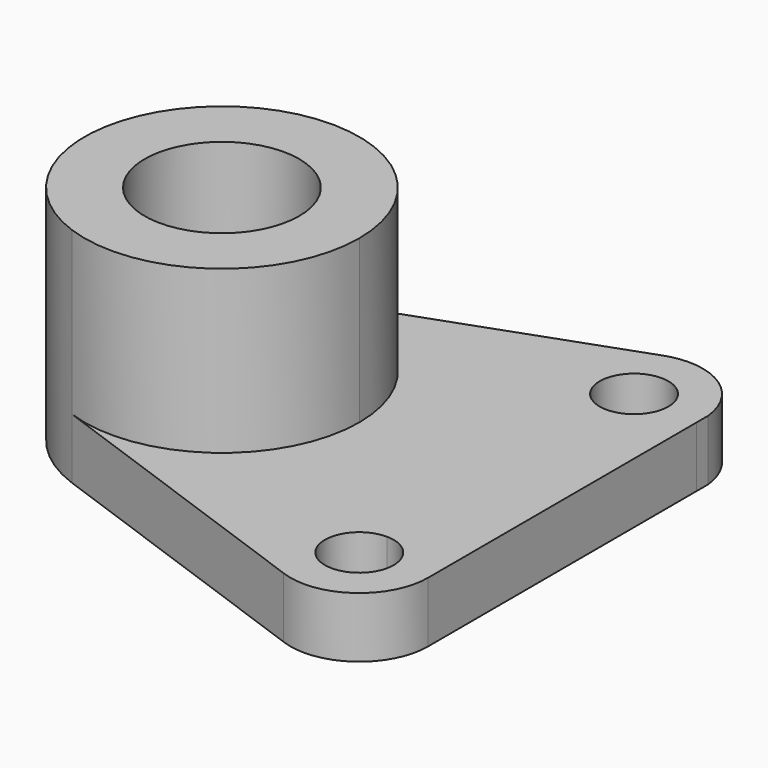
from build123d import *

# Parameters (mm, degrees)
F0_R     = 14.2875
F1_DEPTH = 11.176
F2_DEPTH = 41.148


with BuildPart() as f1:
    # F0 (on Top) → F1 (new body)
    with BuildSketch(Plane.XY):
        with BuildLine():
            ThreePointArc((-8.589072, -23.90372), (14.611598, -20.776458), (25.4, 0))
            ThreePointArc((25.4, 0), (14.612857, 20.775573), (-8.586174, 23.904761))
            ThreePointArc((-8.586174, 23.904761), (-25.4, 0.001539), (-8.589072, -23.90372))
        make_face()
        Circle(F0_R, mode=Mode.SUBTRACT)
        with BuildLine():
            ThreePointArc((-8.586174, 23.904761), (14.612857, 20.775573), (25.4, 0))
            ThreePointArc((25.4, 0), (14.611598, -20.776458), (-8.589072, -23.90372))
            Line((-8.589072, -23.90372), (46.321865, -43.634288))
            ThreePointArc((46.321865, -43.634288), (58.031458, -42.190115), (63.499992, -31.735673))
            Line((63.499992, -31.735673), (63.429879, 30.417271))
            Line((63.429879, 30.417271), (63.42684, 33.111221))
            ThreePointArc((63.42684, 33.111221), (57.339148, 42.637128), (46.069969, 43.536297))
            Line((46.069969, 43.536297), (-8.586174, 23.904761))
        make_face()
        with BuildLine():
            ThreePointArc((57.15, -31.75), (46.309872, -36.240128), (50.8, -25.4))
            ThreePointArc((50.8, -25.4), (55.290128, -27.259872), (57.15, -31.75))
        make_face(mode=Mode.SUBTRACT)
        with BuildLine():
            ThreePointArc((57.15, 31.75), (55.290128, 27.259872), (50.8, 25.4))
            ThreePointArc((50.8, 25.4), (46.309872, 36.240128), (57.15, 31.75))
        make_face(mode=Mode.SUBTRACT)
    extrude(amount=F1_DEPTH)

    # F0 (on Top) → F2 (join)
    with BuildSketch(Plane.XY):
        with BuildLine():
            ThreePointArc((-8.589072, -23.90372), (14.611598, -20.776458), (25.4, 0))
            ThreePointArc((25.4, 0), (14.612857, 20.775573), (-8.586174, 23.904761))
            ThreePointArc((-8.586174, 23.904761), (-25.4, 0.001539), (-8.589072, -23.90372))
        make_face()
        Circle(F0_R, mode=Mode.SUBTRACT)
    extrude(amount=F2_DEPTH)


solid = f1.part
